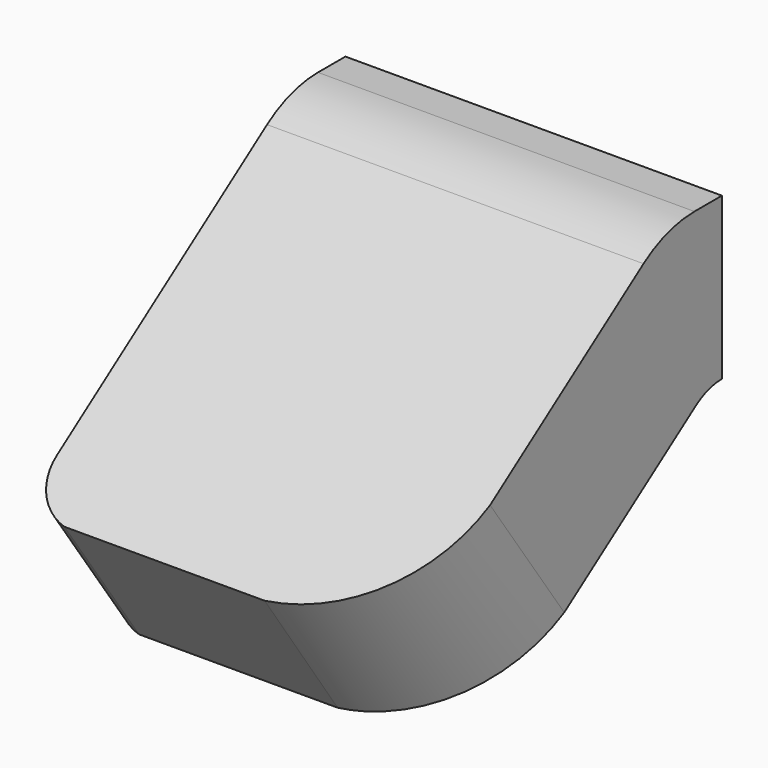
from build123d import *

# Parameters (mm, degrees)
PAD011_DEPTH    = 0.7
POCKET010_DEPTH = 0.6345351801


with BuildPart() as pocket010:
    # Sketch022 → Pad011 (new body)
    with BuildSketch(Plane(origin=(1.6500000167, -2.3199999803, 2.1749995953), x_dir=(0, 1, 0), z_dir=(1, 0, 0))):
        with BuildLine():
            Line((0, 0), (0, 0.3))
            Line((0, 0.3), (0.0639, 0.3))
            ThreePointArc((0.1822171332, 0.262632903), (0.1259387861, 0.2904362212), (0.0639, 0.3))
            Line((0.1822171332, 0.262632903), (0.7527857421, -0.1376925428))
            Line((0.5807128112, -0.3834381561), (0.7527857421, -0.1376925428))
            Line((0.0602255258, -0.0189890353), (0.5807128112, -0.3834381561))
            ThreePointArc((0.0602255258, -0.0189890353), (0.0315741089, -0.0048597202), (0, 0))
        make_face()
    extrude(amount=PAD011_DEPTH)

    # Sketch023 (on Face5 of Pad011) → Pocket010 (cut, through all)
    with BuildSketch(Plane(origin=(1.6500000167, -2.1364072387, 2.4366673365), x_dir=(0, -0.8186063255, 0.5743550156), z_dir=(0, 0.5743550156, 0.8186063255))):
        with BuildLine():
            ThreePointArc((-0.698, 0.103), (-0.6678319985, 0.0301680015), (-0.595, 0))
            Line((-0.595, 0), (-0.748, 0))
            Line((-0.748, 0.701), (-0.748, 0))
            Line((-0.41, 0.701), (-0.748, 0.701))
            ThreePointArc((-0.41, 0.701), (-0.613646753, 0.616646753), (-0.698, 0.413))
            Line((-0.698, 0.413), (-0.698, 0.103))
        make_face()
    extrude(amount=-POCKET010_DEPTH, mode=Mode.SUBTRACT)


with BuildPart() as part_mirroring004:
    # Part__Mirroring004: instance of Pocket010
    add(pocket010.part.mirror(Plane(origin=(0, 0, 0), x_dir=(1, 0, 0), z_dir=(0, 1, 0))))


solid = part_mirroring004.part
